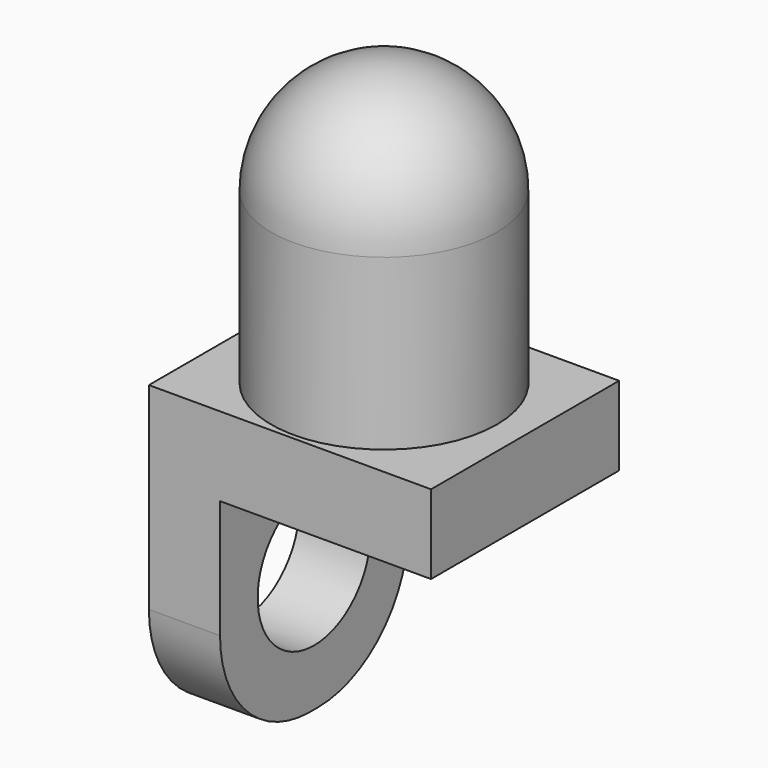
from build123d import *

# Parameters (mm, degrees)
F0_W      = 254
F0_H      = 254
F0_W_2    = 19.9865185836
F0_H_2    = 80.453767086
F1_DEPTH  = 1
F2_W      = 10
F2_H      = 8.3321671046
F3_DEPTH  = 16
F4_W      = 10
F4_H      = 8.3321671046
F4_R      = 4
F5_DEPTH  = 5
F6_W      = 7.4782028049
F6_H      = 8.1982985139
F7_DEPTH  = 11
F8_DEPTH  = 5
F11_R     = 4
F12_R     = 4
F9_R      = 2.5
F13_DEPTH = 5


with BuildPart() as f1:
    # F0 (on Front) → F1 (new body)
    with BuildSketch(Plane.XZ):
        with Locations((193.7753074374, -446.9196461141)):
            Rectangle(F0_W, F0_H)
        with Locations((130.3308923814, -466.3652455825)):
            Rectangle(F0_W_2, F0_H_2, mode=Mode.SUBTRACT)
    extrude(amount=F1_DEPTH)


with BuildPart() as f3:
    # F2 (on Top) → F3 (new body)
    with BuildSketch(Plane.XY):
        Rectangle(F2_W, F2_H)
    extrude(amount=F3_DEPTH)

    # F4 (on face) → F5 (cut)
    with BuildSketch(Plane.XY.offset(16)):
        Rectangle(F4_W, F4_H)
        Circle(F4_R, mode=Mode.SUBTRACT)
    extrude(amount=-F5_DEPTH, mode=Mode.SUBTRACT)

    # F6 (on face) → F7 (cut)
    with BuildSketch(Plane.XZ.offset(4.1660835523)):
        with Locations((1.2608985975, 4.0991492569)):
            Rectangle(F6_W, F6_H)
    extrude(amount=-F7_DEPTH, mode=Mode.SUBTRACT)

    # F8 (add): a face of the model
    f8_faces = [f3.faces().sort_by_distance(p)[0] for p in [
        (0, 0, 16),
    ]]
    extrude(f8_faces, amount=F8_DEPTH)

    # F11
    f11_edges = [f3.edges().sort_by_distance(p)[0] for p in [
        (-4, 0, 21),
    ]]
    fillet(f11_edges, radius=F11_R)

    # F12
    f12_edges = [f3.edges().sort_by_distance(p)[0] for p in [
        (-3.739101, -4.166084, 0),
        (-3.739101, 4.166084, 0),
    ]]
    fillet(f12_edges, radius=F12_R)

    # F9 (on face) → F13 (cut)
    with BuildSketch(Plane.YZ.offset(-2.4782028049)):
        with Locations((0, 4.5)):
            Circle(F9_R)
    extrude(amount=-F13_DEPTH, mode=Mode.SUBTRACT)


solid = f3.part
